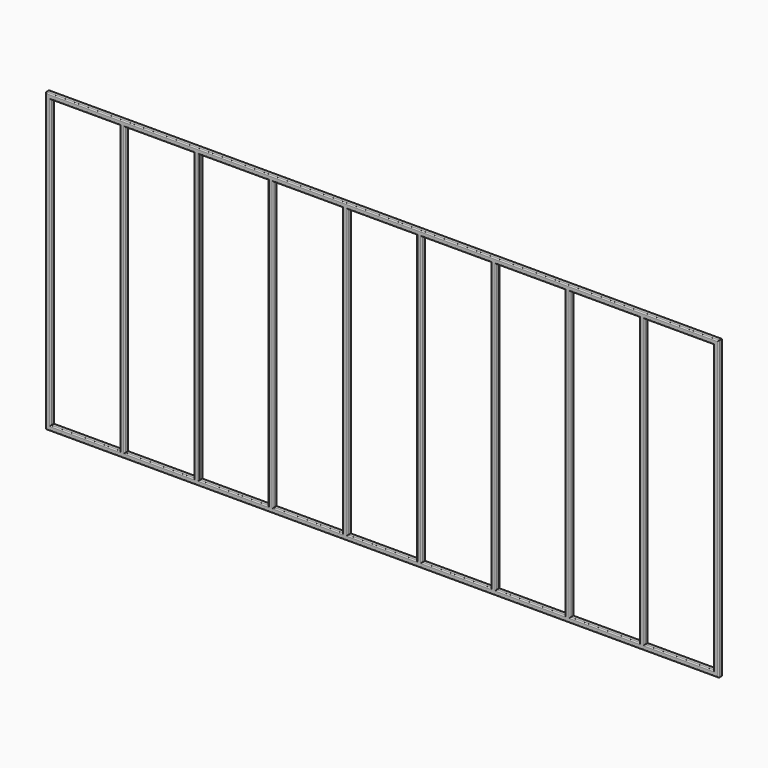
from build123d import *

# Parameters (mm, degrees)
F0_W     = 1360
F0_H     = 600
F0_W_2   = 140
F0_H_2   = 580
F1_DEPTH = 10
F2_R     = 2


with BuildPart() as f1:
    # F0 (on Front) → F1 (new body)
    with BuildSketch(Plane.XZ):
        with Locations((621.074081, 267.701469)):
            Rectangle(F0_W, F0_H)
        with Locations((21.074081, 267.701469)):
            Rectangle(F0_W_2, F0_H_2, mode=Mode.SUBTRACT)
        with Locations((171.074081, 267.701469)):
            Rectangle(F0_W_2, F0_H_2, mode=Mode.SUBTRACT)
        with Locations((321.074081, 267.701469)):
            Rectangle(F0_W_2, F0_H_2, mode=Mode.SUBTRACT)
        with Locations((471.074081, 267.701469)):
            Rectangle(F0_W_2, F0_H_2, mode=Mode.SUBTRACT)
        with Locations((621.074081, 267.701469)):
            Rectangle(F0_W_2, F0_H_2, mode=Mode.SUBTRACT)
        with Locations((771.074081, 267.701469)):
            Rectangle(F0_W_2, F0_H_2, mode=Mode.SUBTRACT)
        with Locations((921.074081, 267.701469)):
            Rectangle(F0_W_2, F0_H_2, mode=Mode.SUBTRACT)
        with Locations((1071.074081, 267.701469)):
            Rectangle(F0_W_2, F0_H_2, mode=Mode.SUBTRACT)
        with Locations((1221.074081, 267.701469)):
            Rectangle(F0_W_2, F0_H_2, mode=Mode.SUBTRACT)
    extrude(amount=F1_DEPTH)

    # F2
    f2_edges = [f1.edges().sort_by_distance(p)[0] for p in [
        (1221.074081, -10, -22.298531),
        (1151.074081, -10, 267.701469),
        (1071.074081, -10, -22.298531),
        (1141.074081, -10, 267.701469),
        (1221.074081, 0, -22.298531),
        (1151.074081, 0, 267.701469),
        (621.074081, -10, -32.298531),
        (1301.074081, -10, 267.701469),
        (1301.074081, 0, 267.701469),
        (1291.074081, -10, 267.701469),
        (621.074081, 0, -32.298531),
        (1291.074081, 0, 267.701469),
        (1141.074081, 0, 267.701469),
        (1071.074081, 0, -22.298531),
        (1001.074081, 0, 267.701469),
        (991.074081, 0, 267.701469),
        (991.074081, -10, 267.701469),
        (921.074081, 0, -22.298531),
        (841.074081, 0, 267.701469),
        (841.074081, -10, 267.701469),
        (771.074081, 0, -22.298531),
        (851.074081, 0, 267.701469),
        (701.074081, 0, 267.701469),
        (691.074081, 0, 267.701469),
        (691.074081, -10, 267.701469),
        (621.074081, 0, -22.298531),
        (551.074081, 0, 267.701469),
        (541.074081, 0, 267.701469),
        (541.074081, -10, 267.701469),
        (471.074081, 0, -22.298531),
        (401.074081, 0, 267.701469),
        (391.074081, 0, 267.701469),
        (321.074081, 0, -22.298531),
        (391.074081, -10, 267.701469),
        (251.074081, 0, 267.701469),
        (241.074081, 0, 267.701469),
        (241.074081, -10, 267.701469),
        (171.074081, 0, -22.298531),
        (101.074081, 0, 267.701469),
        (91.074081, 0, 267.701469),
        (91.074081, -10, 267.701469),
        (21.074081, 0, -22.298531),
        (-48.925919, 0, 267.701469),
        (-58.925919, 0, 267.701469),
        (-58.925919, -10, 267.701469),
        (21.074081, -10, 557.701469),
        (621.074081, 0, 567.701469),
        (171.074081, 0, 557.701469),
        (171.074081, -10, 557.701469),
        (471.074081, -10, 557.701469),
        (471.074081, 0, 557.701469),
        (321.074081, -10, 557.701469),
        (321.074081, 0, 557.701469),
        (771.074081, -10, 557.701469),
        (771.074081, 0, 557.701469),
        (621.074081, -10, 557.701469),
        (621.074081, 0, 557.701469),
        (1071.074081, -10, 557.701469),
        (1071.074081, 0, 557.701469),
        (921.074081, -10, 557.701469),
        (921.074081, 0, 557.701469),
        (1221.074081, -10, 557.701469),
        (1221.074081, 0, 557.701469),
        (1001.074081, -10, 267.701469),
        (851.074081, -10, 267.701469),
        (701.074081, -10, 267.701469),
        (551.074081, -10, 267.701469),
        (401.074081, -10, 267.701469),
        (251.074081, -10, 267.701469),
        (101.074081, -10, 267.701469),
        (-48.925919, -10, 267.701469),
        (621.074081, -10, 567.701469),
        (921.074081, -10, -22.298531),
        (771.074081, -10, -22.298531),
        (621.074081, -10, -22.298531),
        (471.074081, -10, -22.298531),
        (321.074081, -10, -22.298531),
        (171.074081, -10, -22.298531),
        (21.074081, -10, -22.298531),
        (21.074081, 0, 557.701469),
    ]]
    fillet(f2_edges, radius=F2_R)


solid = f1.part
